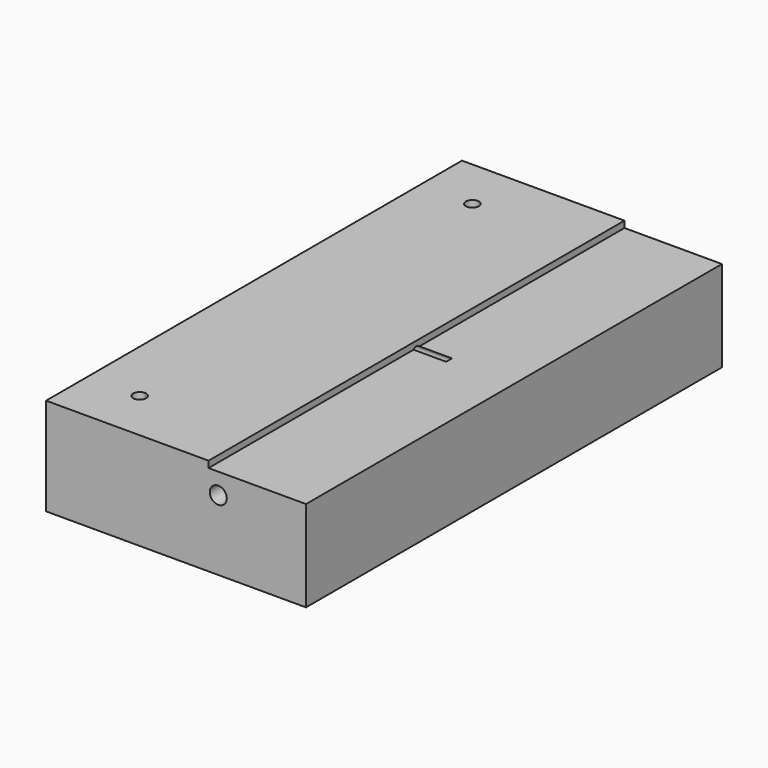
from build123d import *

# Parameters (mm, degrees)
F0_R     = 1.659583
F0_W     = 31.75
F0_H     = 1.27
F1_DEPTH = 50.8
F2_R     = 0.9525
F3_DEPTH = 38.1254
F5_DEPTH = 9.525


with BuildPart() as f1:
    # F0 (on Front) → F1 (new body, symmetric)
    with BuildSketch(Plane.XZ):
        Polygon((25.4, -9.525), (25.4, 8.255), (12.7, 8.255), (12.7, 6.985), (-25.4, 6.985), (-25.4, -9.525), align=None)
        with Locations((8.255, 4.199334)):
            Circle(F0_R, mode=Mode.SUBTRACT)
        Polygon((12.7, 8.255), (6.35, 8.255), (-25.4, 8.255), (-25.4, 6.985), (12.7, 6.985), align=None)
        with Locations((-9.525, 8.89)):
            Rectangle(F0_W, F0_H)
    extrude(amount=F1_DEPTH, both=True)

    # F2 (on face) → F3 (cut)
    with BuildSketch(Plane(origin=(-25.4, 0, 0), x_dir=(0, -1, 0), z_dir=(-1, 0, 0))):
        with Locations((0, 7.62)):
            Circle(F2_R)
    extrude(amount=-F3_DEPTH, mode=Mode.SUBTRACT)

    # F4 (on face) → F5 (cut)
    with BuildSketch(Plane.XY.offset(9.525)):
        with BuildLine():
            ThreePointArc((-13.97, 40.64), (-16.138026, 41.538026), (-15.24, 39.37))
            ThreePointArc((-15.24, 39.37), (-14.341974, 39.741974), (-13.97, 40.64))
        make_face()
        with BuildLine():
            ThreePointArc((-13.97, -40.64), (-14.341974, -39.741974), (-15.24, -39.37))
            ThreePointArc((-15.24, -39.37), (-16.138026, -41.538026), (-13.97, -40.64))
        make_face()
    extrude(amount=-F5_DEPTH, mode=Mode.SUBTRACT)


solid = f1.part
